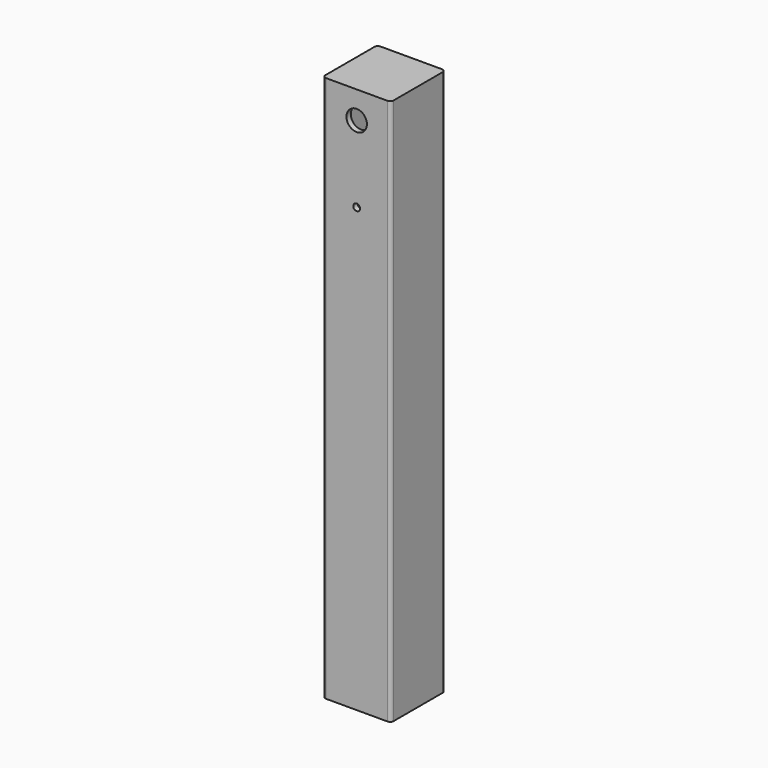
from build123d import *

# Parameters (mm, degrees)
F0_W     = 42
F0_H     = 42
F1_DEPTH = 400
F2_R     = 7.5
F3_DEPTH = 50
F4_W     = 42
F4_H     = 42
F5_DEPTH = 5
F6_R     = 2.5
F7_DEPTH = 50


with BuildPart() as f1:
    # F0 (on Top) → F1 (new body)
    with BuildSketch(Plane.XY):
        with BuildLine():
            Line((43.5, 46), (-1.5, 46))
            ThreePointArc((-1.5, 46), (-3.267767, 45.267767), (-4, 43.5))
            Line((-4, 43.5), (-4, -1.5))
            ThreePointArc((-4, -1.5), (-3.267767, -3.267767), (-1.5, -4))
            Line((-1.5, -4), (43.5, -4))
            ThreePointArc((43.5, -4), (45.267767, -3.267767), (46, -1.5))
            Line((46, -1.5), (46, 43.5))
            ThreePointArc((46, 43.5), (45.267767, 45.267767), (43.5, 46))
        make_face()
        with Locations((21, 21)):
            Rectangle(F0_W, F0_H, mode=Mode.SUBTRACT)
    extrude(amount=F1_DEPTH)

    # F2 (on face) → F3 (cut)
    with BuildSketch(Plane.XZ.offset(4)):
        with Locations((21, 380)):
            Circle(F2_R)
    extrude(amount=-F3_DEPTH, mode=Mode.SUBTRACT)

    # F4 (on face) → F5 (join)
    with BuildSketch(Plane.XY.offset(400)):
        with Locations((21, 21)):
            Rectangle(F4_W, F4_H)
    extrude(amount=-F5_DEPTH)

    # F6 (on face) → F7 (cut)
    with BuildSketch(Plane.XZ.offset(4)):
        with Locations((21, 324)):
            Circle(F6_R)
    extrude(amount=-F7_DEPTH, mode=Mode.SUBTRACT)


solid = f1.part
